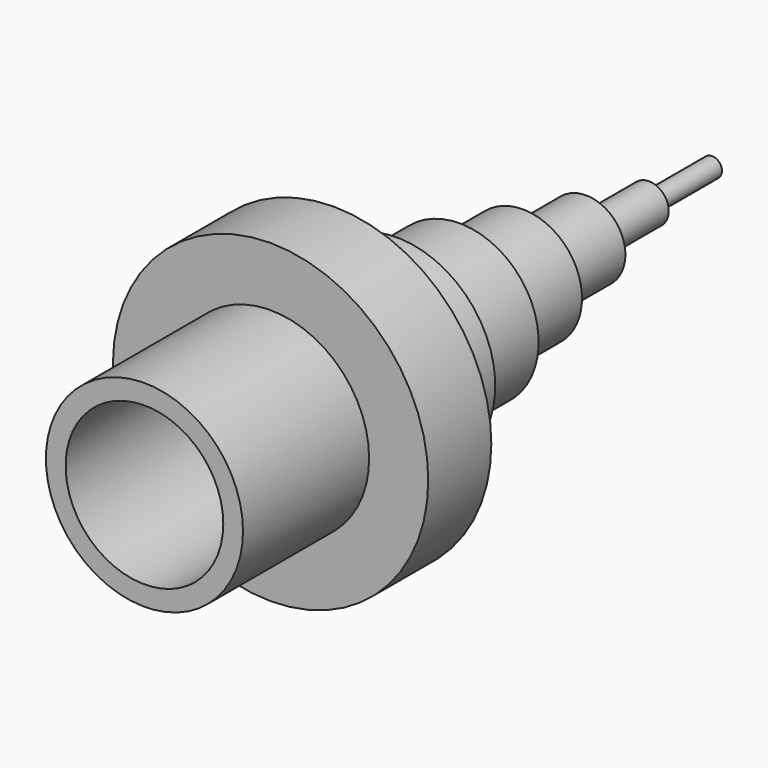
from build123d import *

# Parameters (mm, degrees)
F0_R      = 40
F1_DEPTH  = 20
F2_R      = 25
F3_DEPTH  = 40
F4_R      = 20
F5_DEPTH  = 40
F6_R      = 25
F7_DEPTH  = 20
F8_R      = 20
F9_DEPTH  = 20
F10_R     = 15
F11_DEPTH = 20
F12_R     = 10
F13_DEPTH = 20
F14_R     = 5
F15_DEPTH = 20
F16_R     = 2.5
F17_DEPTH = 20


with BuildPart() as f1:
    # F0 (on Front) → F1 (new body)
    with BuildSketch(Plane.XZ):
        Circle(F0_R)
    extrude(amount=F1_DEPTH)

    # F2 (on face) → F3 (join)
    with BuildSketch(Plane.XZ.offset(20)):
        Circle(F2_R)
    extrude(amount=F3_DEPTH)

    # F4 (on face) → F5 (cut)
    with BuildSketch(Plane.XZ.offset(60)):
        Circle(F4_R)
    extrude(amount=-F5_DEPTH, mode=Mode.SUBTRACT)

    # F6 (on face) → F7 (join)
    with BuildSketch(Plane(origin=(0, 0, 0), x_dir=(-1, 0, 0), z_dir=(0, 1, 0))):
        Circle(F6_R)
    extrude(amount=F7_DEPTH)

    # F8 (on face) → F9 (join)
    with BuildSketch(Plane(origin=(0, 20, 0), x_dir=(-1, 0, 0), z_dir=(0, 1, 0))):
        Circle(F8_R)
    extrude(amount=F9_DEPTH)

    # F10 (on face) → F11 (join)
    with BuildSketch(Plane(origin=(0, 40, 0), x_dir=(-1, 0, 0), z_dir=(0, 1, 0))):
        Circle(F10_R)
    extrude(amount=F11_DEPTH)

    # F12 (on face) → F13 (join)
    with BuildSketch(Plane(origin=(0, 60, 0), x_dir=(-1, 0, 0), z_dir=(0, 1, 0))):
        Circle(F12_R)
    extrude(amount=F13_DEPTH)

    # F14 (on face) → F15 (join)
    with BuildSketch(Plane(origin=(0, 80, 0), x_dir=(-1, 0, 0), z_dir=(0, 1, 0))):
        Circle(F14_R)
    extrude(amount=F15_DEPTH)

    # F16 (on face) → F17 (join)
    with BuildSketch(Plane(origin=(0, 100, 0), x_dir=(-1, 0, 0), z_dir=(0, 1, 0))):
        Circle(F16_R)
    extrude(amount=F17_DEPTH)


solid = f1.part
